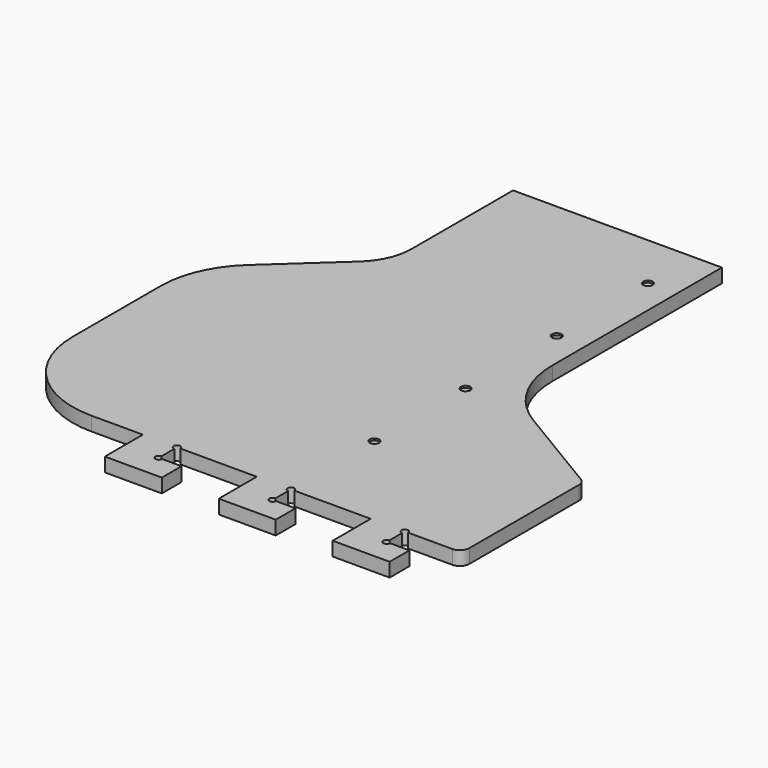
from build123d import *

# Parameters (mm, degrees)
SKETCH_W              = 1346.2
SKETCH_H              = 622.3
PAD_DEPTH             = 18.669
POCKET_DEPTH          = 18.67
POCKET001_DEPTH       = 18.67
SKETCH003_W           = 63.5
SKETCH003_H           = 76.2
PAD001_DEPTH          = 18.669
FILLET_R              = 12.7
FILLET001_R           = 127
SKETCH004_W           = 30.48
SKETCH004_H           = 30.48
POCKET002_DEPTH       = 18.67
SKETCH005_R           = 4.490128
POCKET003_DEPTH       = 18.67
FILLET002_R           = 127
FILLET003_R           = 127
FILLET004_R           = 76.2
SKETCH006_W           = 736.6
SKETCH006_H           = 762
POCKET004_DEPTH       = 18.67
SKETCH007_R           = 6.35
POCKET005_DEPTH       = 2.54
CLONE_PLACEMENT_ANGLE = 90


with BuildPart() as part:
    # Sketch → Pad (new body)
    with BuildSketch(Plane.XY):
        Rectangle(SKETCH_W, SKETCH_H)
    extrude(amount=PAD_DEPTH)

    # Sketch001 (on Face6 of Pad) → Pocket (cut, through all)
    with BuildSketch(Plane.XY.offset(18.669)):
        Polygon((-355.6, -120.65), (355.6, -120.65), (469.9, -311.15), (-469.9, -311.15), align=None)
    extrude(amount=-POCKET_DEPTH, mode=Mode.SUBTRACT)

    # Sketch002 (on Face5 of Pocket) → Pocket001 (cut, through all)
    with BuildSketch(Plane.XY.offset(18.669)):
        Polygon((-342.9, 311.15), (342.9, 311.15), (203.2, 158.75), (-203.2, 158.75), align=None)
    extrude(amount=-POCKET001_DEPTH, mode=Mode.SUBTRACT)

    # Sketch003 (on Face4 of Pocket001) → Pad001 (join)
    with BuildSketch(Plane.XY.offset(18.669)):
        with Locations((704.85, 77.47)):
            Rectangle(SKETCH003_W, SKETCH003_H)
        with Locations((704.85, -74.93)):
            Rectangle(SKETCH003_W, SKETCH003_H)
        with Locations((704.85, -227.33)):
            Rectangle(SKETCH003_W, SKETCH003_H)
        with Locations((-704.85, -227.33)):
            Rectangle(SKETCH003_W, SKETCH003_H)
        with Locations((-704.85, 77.47)):
            Rectangle(SKETCH003_W, SKETCH003_H)
        with Locations((-704.85, -74.93)):
            Rectangle(SKETCH003_W, SKETCH003_H)
    extrude(amount=-PAD001_DEPTH)

    # Fillet
    fillet_edges = [part.edges().sort_by_distance(p)[0] for p in [
        (673.1, -311.15, 9.3345),
        (-673.1, -311.15, 9.3345),
        (-469.9, -311.15, 9.3345),
        (469.9, -311.15, 9.3345),
    ]]
    fillet(fillet_edges, radius=FILLET_R)

    # Fillet001
    fillet001_edges = [part.edges().sort_by_distance(p)[0] for p in [
        (-673.1, 311.15, 9.3345),
        (673.1, 311.15, 9.3345),
    ]]
    fillet(fillet001_edges, radius=FILLET001_R)

    # Sketch004 (on Face52 of Fillet001) → Pocket002 (cut, through all)
    with BuildSketch(Plane.XY.offset(18.669)):
        with Locations((-688.34, 54.61)):
            Rectangle(SKETCH004_W, SKETCH004_H)
        with Locations((-688.34, -97.79)):
            Rectangle(SKETCH004_W, SKETCH004_H)
        with Locations((-688.34, -250.19)):
            Rectangle(SKETCH004_W, SKETCH004_H)
        with Locations((688.34, -250.19)):
            Rectangle(SKETCH004_W, SKETCH004_H)
        with Locations((688.34, -97.79)):
            Rectangle(SKETCH004_W, SKETCH004_H)
        with Locations((688.34, 54.61)):
            Rectangle(SKETCH004_W, SKETCH004_H)
    extrude(amount=-POCKET002_DEPTH, mode=Mode.SUBTRACT)

    # Sketch005 (on Face69 of Pocket002) → Pocket003 (cut, through all)
    with BuildSketch(Plane.XY.offset(18.669)):
        with Locations((703.58, -234.95)):
            Circle(SKETCH005_R)
        with Locations((673.1, -234.95)):
            Circle(SKETCH005_R)
        with Locations((703.58, -82.55)):
            Circle(SKETCH005_R)
        with Locations((673.1, -82.55)):
            Circle(SKETCH005_R)
        with Locations((703.58, 69.85)):
            Circle(SKETCH005_R)
        with Locations((673.1, 69.85)):
            Circle(SKETCH005_R)
        with Locations((-673.1, 69.85)):
            Circle(SKETCH005_R)
        with Locations((-703.58, 69.85)):
            Circle(SKETCH005_R)
        with Locations((-673.1, -82.55)):
            Circle(SKETCH005_R)
        with Locations((-703.58, -82.55)):
            Circle(SKETCH005_R)
        with Locations((-703.58, -234.95)):
            Circle(SKETCH005_R)
        with Locations((-673.1, -234.95)):
            Circle(SKETCH005_R)
    extrude(amount=-POCKET003_DEPTH, mode=Mode.SUBTRACT)

    # Fillet002
    fillet002_edges = [part.edges().sort_by_distance(p)[0] for p in [
        (-355.6, -120.65, 9.3345),
        (355.6, -120.65, 9.3345),
    ]]
    fillet(fillet002_edges, radius=FILLET002_R)

    # Fillet003
    fillet003_edges = [part.edges().sort_by_distance(p)[0] for p in [
        (-342.9, 311.15, 9.3345),
        (342.9, 311.15, 9.3345),
    ]]
    fillet(fillet003_edges, radius=FILLET003_R)

    # Fillet004
    fillet004_edges = [part.edges().sort_by_distance(p)[0] for p in [
        (-203.2, 158.75, 9.3345),
        (203.2, 158.75, 9.3345),
    ]]
    fillet(fillet004_edges, radius=FILLET004_R)

    # Sketch006 (on Face53 of Fillet004) → Pocket004 (cut, through all)
    with BuildSketch(Plane.XY.offset(18.669)):
        with Locations((368.3, 0)):
            Rectangle(SKETCH006_W, SKETCH006_H)
    extrude(amount=-POCKET004_DEPTH, mode=Mode.SUBTRACT)

    # Sketch007 (on Face31 of Pocket004) → Pocket005 (cut)
    with BuildSketch(Plane.XY.offset(18.669)):
        with Locations((-228.6, -82.55)):
            Circle(SKETCH007_R)
        with Locations((-381, -82.55)):
            Circle(SKETCH007_R)
        with Locations((-533.4, -82.55)):
            Circle(SKETCH007_R)
        with Locations((-76.2, -82.55)):
            Circle(SKETCH007_R)
    extrude(amount=-POCKET005_DEPTH, mode=Mode.SUBTRACT)


with BuildPart() as part_1:
    # Clone placement: moved
    add(part.part.moved(Location((304.8, 762, -18.669))).rotate(Axis((304.8, 762, -18.669), (0, 0, 1)), CLONE_PLACEMENT_ANGLE))


solid = part_1.part
